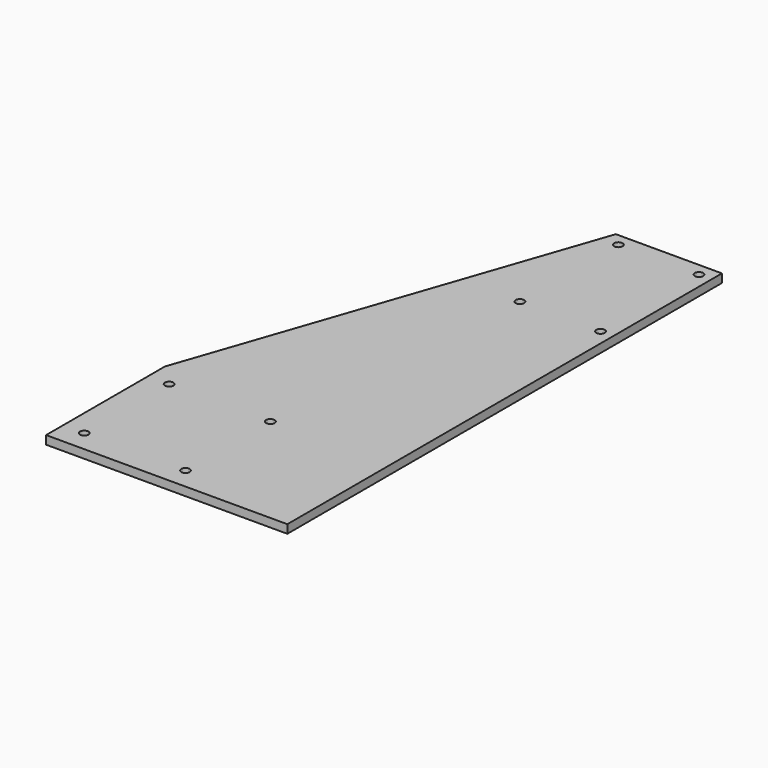
from build123d import *

# Parameters (mm, degrees)
F0_R     = 1
F1_DEPTH = 2


with BuildPart() as f1:
    # F0 (on Top) → F1 (new body)
    with BuildSketch(Plane.XY):
        Polygon((28.425, -64), (28.425, 64), (3.425, 64), (-28.425, -29), (-28.425, -64), align=None)
        with Locations((-23.425, -59)):
            Circle(F0_R, mode=Mode.SUBTRACT)
        with Locations((-23.425, -34)):
            Circle(F0_R, mode=Mode.SUBTRACT)
        with Locations((0.425, -59)):
            Circle(F0_R, mode=Mode.SUBTRACT)
        with Locations((0.425, -34)):
            Circle(F0_R, mode=Mode.SUBTRACT)
        with Locations((6.425, 32)):
            Circle(F0_R, mode=Mode.SUBTRACT)
        with Locations((6.425, 61)):
            Circle(F0_R, mode=Mode.SUBTRACT)
        with Locations((25.425, 32)):
            Circle(F0_R, mode=Mode.SUBTRACT)
        with Locations((25.425, 61)):
            Circle(F0_R, mode=Mode.SUBTRACT)
    extrude(amount=F1_DEPTH)


solid = f1.part
